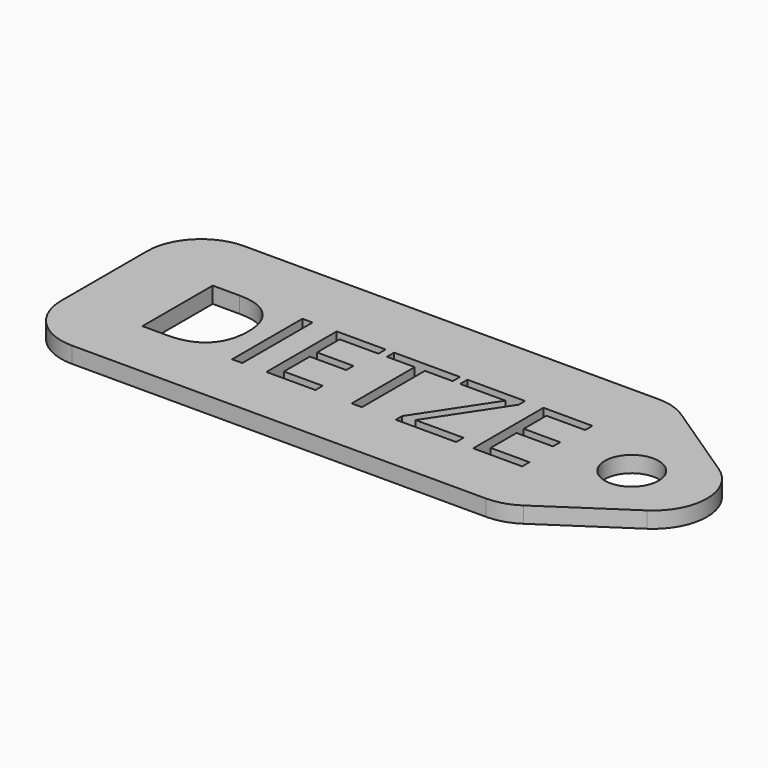
from build123d import *

# Parameters (mm, degrees)
F0_W     = 0.9482001415
F0_H     = 8.158806867
F0_R     = 2.5
F1_DEPTH = 1.5
F2_R     = 5
F3_R     = 5


with BuildPart() as f1:
    # F0 (on Top) → F1 (new body)
    with BuildSketch(Plane.XY):
        Polygon((-15, 20), (-60, 20), (-60, 0), (-15, 0), (0, 10), align=None)
        with BuildLine():
            add(Edge.make_bspline(
                [(-47.4459262549, 12.6766424166), (-46.3914776983, 11.62219386), (-46.3914776983, 9.7293649524)],
                knots=[0, 0, 0, 1, 1, 1], degree=2))
            add(Edge.make_bspline(
                [(-46.3914776983, 9.7293649524), (-46.3914776983, 7.7097522217), (-47.4878899146, 6.6410181639)],
                knots=[0, 0, 0, 1, 1, 1], degree=2))
            add(Edge.make_bspline(
                [(-47.4878899146, 6.6410181639), (-48.5843021309, 5.5722841062), (-50.6431999899, 5.5722841062)],
                knots=[0, 0, 0, 1, 1, 1], degree=2))
            Line((-50.6431999899, 5.5722841062), (-52.9038805532, 5.5722841062))
            Line((-52.9038805532, 5.5722841062), (-52.9038805532, 13.7310909731))
            Line((-52.9038805532, 13.7310909731), (-50.403917845, 13.7310909731))
            add(Edge.make_bspline(
                [(-50.403917845, 13.7310909731), (-48.5003748114, 13.7310909731), (-47.4459262549, 12.6766424166)],
                knots=[0, 0, 0, 1, 1, 1], degree=2))
        make_face(mode=Mode.SUBTRACT)
        with Locations((-44.0977619135, 9.6516875396)):
            Rectangle(F0_W, F0_H, mode=Mode.SUBTRACT)
        Polygon((-36.8380487777, 6.4204857393), (-36.8380487777, 5.5722841062), (-41.386195219, 5.5722841062), (-41.386195219, 13.7310909731), (-36.8380487777, 13.7310909731), (-36.8380487777, 12.8882464029), (-40.4379950775, 12.8882464029), (-40.4379950775, 10.259714184), (-37.0559026708, 10.259714184), (-37.0559026708, 9.4222266768), (-40.4379950775, 9.4222266768), (-40.4379950775, 6.4204857393), align=None, mode=Mode.SUBTRACT)
        Polygon((-32.5202560431, 12.8882464029), (-32.5202560431, 5.5722841062), (-33.4684561846, 5.5722841062), (-33.4684561846, 12.8882464029), (-36.0523462123, 12.8882464029), (-36.0523462123, 13.7310909731), (-29.9363660154, 13.7310909731), (-29.9363660154, 12.8882464029), align=None, mode=Mode.SUBTRACT)
        Polygon((-23.7632438138, 6.4311998652), (-23.7632438138, 5.5722841062), (-29.3720887184, 5.5722841062), (-29.3720887184, 6.315130168), (-25.0417961703, 12.877532277), (-29.2381621448, 12.877532277), (-29.2381621448, 13.7310909731), (-23.8864562616, 13.7310909731), (-23.8864562616, 12.9882449113), (-28.2167488097, 6.4311998652), align=None, mode=Mode.SUBTRACT)
        Polygon((-17.6365494911, 6.4204857393), (-17.6365494911, 5.5722841062), (-22.1846959324, 5.5722841062), (-22.1846959324, 13.7310909731), (-17.6365494911, 13.7310909731), (-17.6365494911, 12.8882464029), (-21.2364957909, 12.8882464029), (-21.2364957909, 10.259714184), (-17.8544033843, 10.259714184), (-17.8544033843, 9.4222266768), (-21.2364957909, 9.4222266768), (-21.2364957909, 6.4204857393), align=None, mode=Mode.SUBTRACT)
        with Locations((-11, 10)):
            Circle(F0_R, mode=Mode.SUBTRACT)
    extrude(amount=F1_DEPTH)

    # F2
    f2_edges = [f1.edges().sort_by_distance(p)[0] for p in [
        (0, 10, 0.75),
    ]]
    fillet(f2_edges, radius=F2_R)

    # F3
    f3_edges = [f1.edges().sort_by_distance(p)[0] for p in [
        (-60, 20, 0.75),
        (-60, 0, 0.75),
        (-15, 0, 0.75),
        (-15, 20, 0.75),
    ]]
    fillet(f3_edges, radius=F3_R)


solid = f1.part
